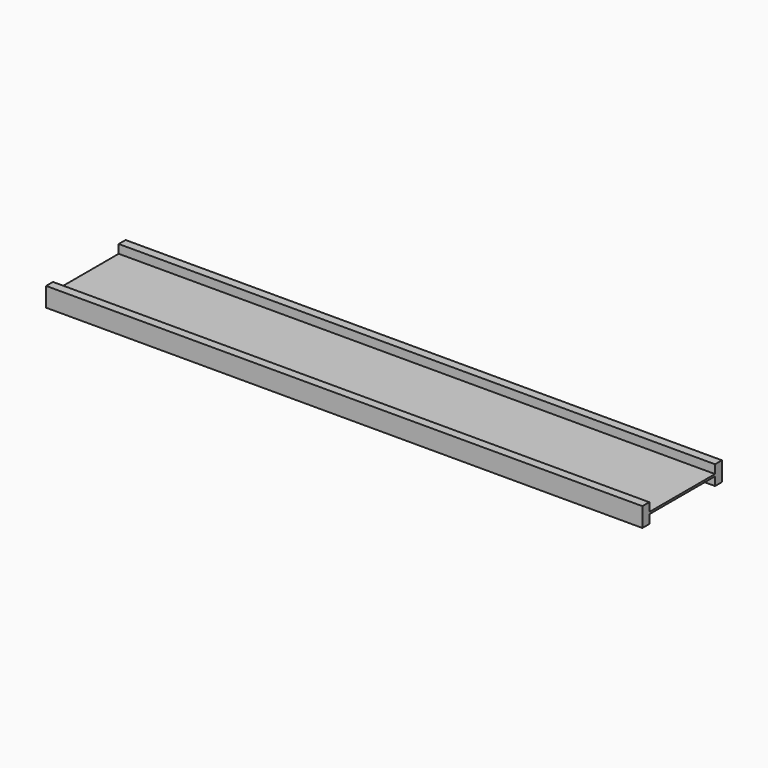
from build123d import *

# Parameters (mm, degrees)
F0_W     = 450
F0_H     = 75
F1_DEPTH = 1.5
F2_W     = 450
F2_H     = 6.5
F3_DEPTH = 6.5
F4_W     = 450
F4_H     = 6.5
F5_DEPTH = 6.5


with BuildPart() as f1:
    # F0 (on Top) → F1 (new body)
    with BuildSketch(Plane.XY):
        Rectangle(F0_W, F0_H)
    extrude(amount=F1_DEPTH)

    # F2 (on face) → F3 (join)
    with BuildSketch(Plane.XY.offset(1.5)):
        with Locations((0, -34.25)):
            Rectangle(F2_W, F2_H)
        with Locations((0, 34.25)):
            Rectangle(F2_W, F2_H)
    extrude(amount=F3_DEPTH)

    # F4 (on face) → F5 (join)
    with BuildSketch(Plane(origin=(0, 0, 0), x_dir=(1, 0, 0), z_dir=(0, 0, -1))):
        with Locations((0, 34.25)):
            Rectangle(F4_W, F4_H)
        with Locations((0, -34.25)):
            Rectangle(F4_W, F4_H)
    extrude(amount=F5_DEPTH)


solid = f1.part
